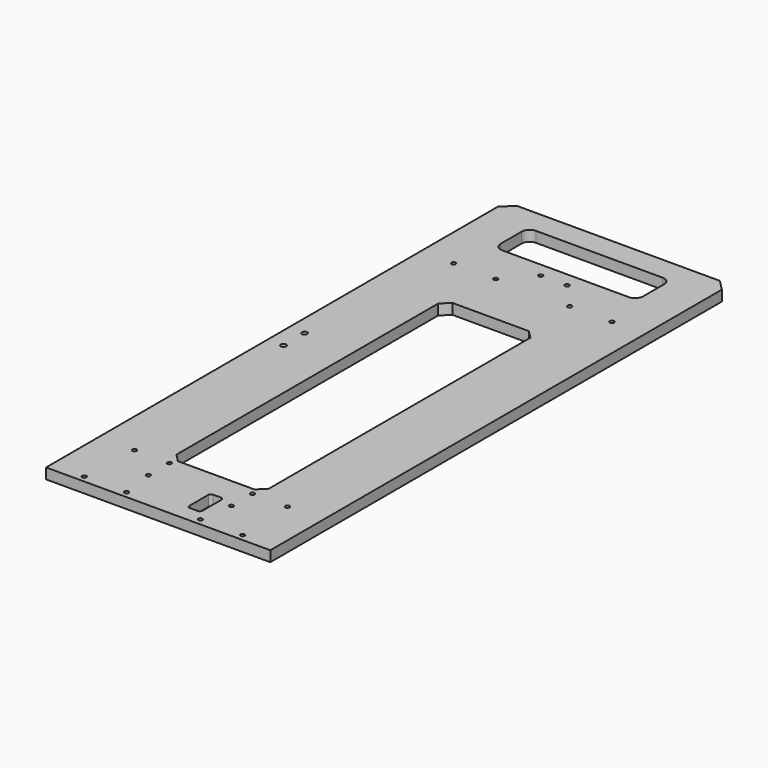
from build123d import *

# Parameters (mm, degrees)
F0_R     = 1.6
F0_R_2   = 2
F1_DEPTH = 8


with BuildPart() as f1:
    # F0 (on Top) → F1 (new body)
    with BuildSketch(Plane.XY):
        Polygon((85, -218), (85, 210), (77, 218), (-77, 218), (-85, 210), (-85, -218), align=None)
        with Locations((-60, -213)):
            Circle(F0_R, mode=Mode.SUBTRACT)
        with Locations((-58, -168)):
            Circle(F0_R, mode=Mode.SUBTRACT)
        with Locations((-28, -213)):
            Circle(F0_R, mode=Mode.SUBTRACT)
        with Locations((-31.5, -188)):
            Circle(F0_R, mode=Mode.SUBTRACT)
        with Locations((-31.5, -168)):
            Circle(F0_R, mode=Mode.SUBTRACT)
        with Locations((-73, -8)):
            Circle(F0_R_2, mode=Mode.SUBTRACT)
        with BuildLine():
            ThreePointArc((12, -185.5), (12.585786, -184.085786), (14, -183.5))
            Line((14, -183.5), (20, -183.5))
            ThreePointArc((20, -183.5), (21.414214, -184.085786), (22, -185.5))
            Line((22, -185.5), (22, -203.5))
            ThreePointArc((22, -203.5), (21.414214, -204.914214), (20, -205.5))
            Line((20, -205.5), (14, -205.5))
            ThreePointArc((14, -205.5), (12.585786, -204.914214), (12, -203.5))
            Line((12, -203.5), (12, -185.5))
        make_face(mode=Mode.SUBTRACT)
        with Locations((28, -213)):
            Circle(F0_R, mode=Mode.SUBTRACT)
        with Locations((31.5, -188)):
            Circle(F0_R, mode=Mode.SUBTRACT)
        with Locations((31.5, -168)):
            Circle(F0_R, mode=Mode.SUBTRACT)
        with Locations((60, -213)):
            Circle(F0_R, mode=Mode.SUBTRACT)
        with Locations((58, -168)):
            Circle(F0_R, mode=Mode.SUBTRACT)
        Polygon((-35, 91), (-29, 97), (29, 97), (35, 91), (35, -157), (29, -163), (-29, -163), (-35, -157), align=None, mode=Mode.SUBTRACT)
        with Locations((-73, 12)):
            Circle(F0_R_2, mode=Mode.SUBTRACT)
        with Locations((-60, 137)):
            Circle(F0_R, mode=Mode.SUBTRACT)
        with Locations((-28, 137)):
            Circle(F0_R, mode=Mode.SUBTRACT)
        with Locations((-10, 157)):
            Circle(F0_R, mode=Mode.SUBTRACT)
        with Locations((10, 157)):
            Circle(F0_R, mode=Mode.SUBTRACT)
        with Locations((28, 137)):
            Circle(F0_R, mode=Mode.SUBTRACT)
        with BuildLine():
            ThreePointArc((-54, 194), (-52.242641, 198.242641), (-48, 200))
            Line((-48, 200), (48, 200))
            ThreePointArc((48, 200), (52.242641, 198.242641), (54, 194))
            Line((54, 194), (54, 174))
            ThreePointArc((54, 174), (52.242641, 169.757359), (48, 168))
            Line((48, 168), (-48, 168))
            ThreePointArc((-48, 168), (-52.242641, 169.757359), (-54, 174))
            Line((-54, 174), (-54, 194))
        make_face(mode=Mode.SUBTRACT)
        with Locations((60, 137)):
            Circle(F0_R, mode=Mode.SUBTRACT)
    extrude(amount=F1_DEPTH)


solid = f1.part
